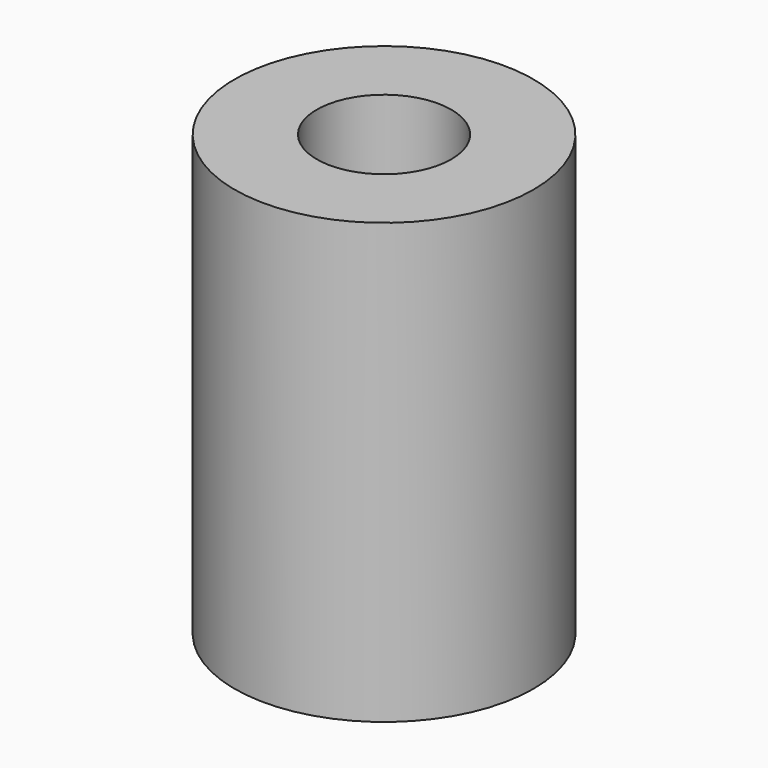
from build123d import *

# Parameters (mm, degrees)
SKETCH_R     = 5
PAD_DEPTH    = 14.7
SKETCH001_R  = 2.25
POCKET_DEPTH = 14.701


with BuildPart() as part:
    # Sketch → Pad (new body)
    with BuildSketch(Plane.XY):
        Circle(SKETCH_R)
    extrude(amount=PAD_DEPTH)

    # Sketch001 → Pocket (cut, through all)
    with BuildSketch(Plane.XY.offset(14.7)):
        Circle(SKETCH001_R)
    extrude(amount=-POCKET_DEPTH, mode=Mode.SUBTRACT)


solid = part.part
